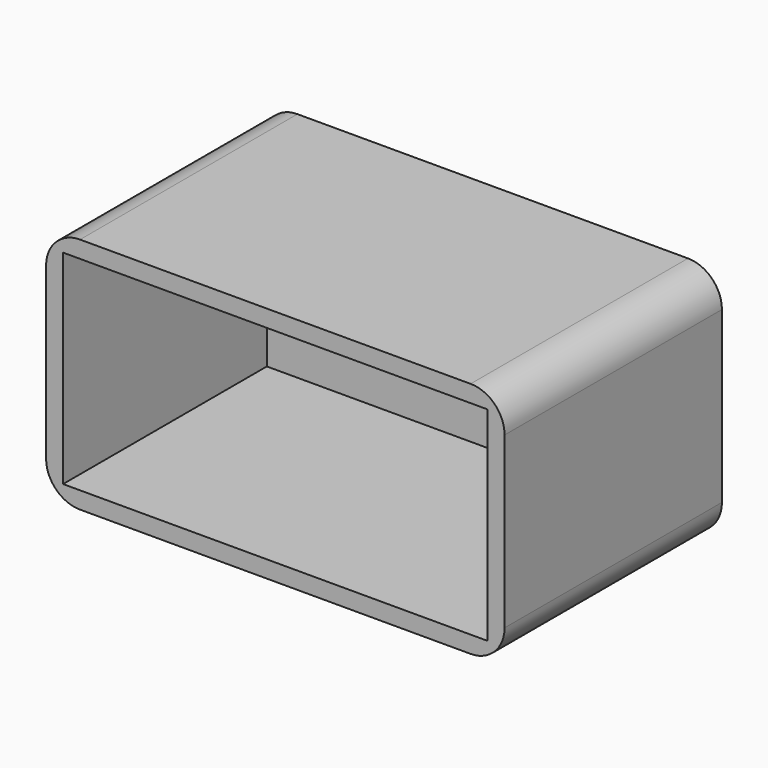
from build123d import *

# Parameters (mm, degrees)
F0_W     = 270
F0_H     = 140
F1_DEPTH = 160
F2_T     = -10
F3_R     = 20


with BuildPart() as f1:
    # F0 (on Front) → F1 (new body)
    with BuildSketch(Plane.XZ):
        Rectangle(F0_W, F0_H)
    extrude(amount=F1_DEPTH)

    # F2
    f2_openings = [f1.faces().sort_by_distance(p)[0] for p in [
        (0, -160, 0),
    ]]
    offset(amount=F2_T, openings=f2_openings)

    # F3
    f3_edges = [f1.edges().sort_by_distance(p)[0] for p in [
        (-135, -80, 70),
        (135, -80, -70),
        (135, -80, 70),
        (-135, -80, -70),
    ]]
    fillet(f3_edges, radius=F3_R)


solid = f1.part
